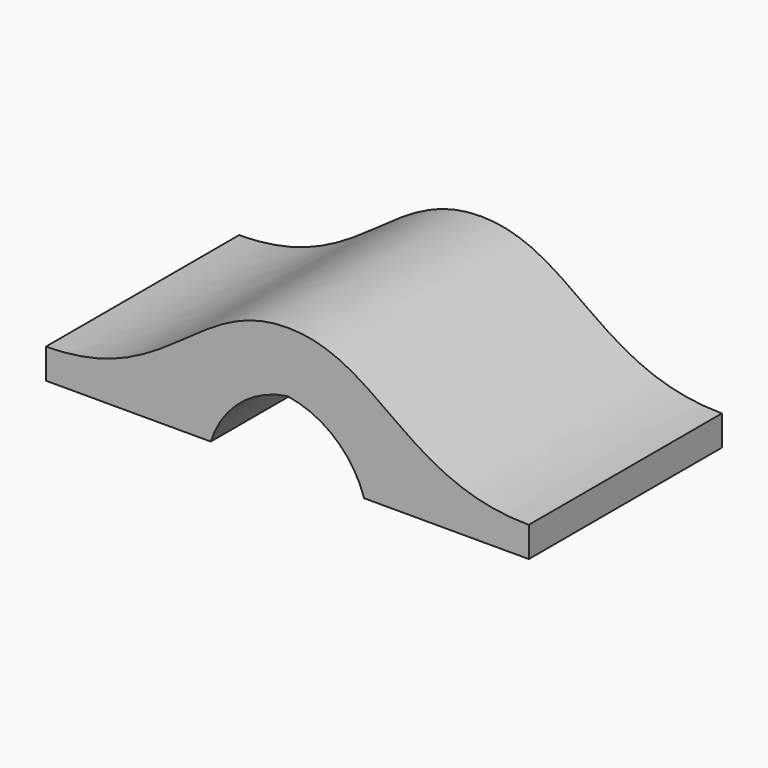
from build123d import *

# Parameters (mm, degrees)
F1_DEPTH = 12.7


with BuildPart() as f1:
    # F0 (on Front) → F1 (new body)
    with BuildSketch(Plane.XZ):
        with BuildLine():
            Line((-12.7, 1.5875), (-12.7, 0))
            Line((-12.7, 0), (-4.035263, 0))
            ThreePointArc((-4.035263, 0), (-2.507044, 2.287056), (0, 3.418784))
            Line((0, 3.418784), (0, 6.593784))
            add(Edge.make_bspline(
                [(-12.7, 1.5875), (-6.245521, 1.5875), (-4.806033, 6.593784), (0, 6.593784)],
                knots=[0, 0, 0, 0, 13.651113, 13.651113, 13.651113, 13.651113], degree=3))
        make_face()
        with BuildLine():
            Line((0, 6.593784), (0, 3.418784))
            ThreePointArc((0, 3.418784), (2.507044, 2.287056), (4.035263, 0))
            Line((4.035263, 0), (12.7, 0))
            Line((12.7, 0), (12.7, 1.5875))
            add(Edge.make_bspline(
                [(12.7, 1.5875), (6.245521, 1.5875), (4.806033, 6.593784), (0, 6.593784)],
                knots=[0, 0, 0, 0, 13.651113, 13.651113, 13.651113, 13.651113], degree=3))
        make_face()
    extrude(amount=F1_DEPTH)


solid = f1.part
